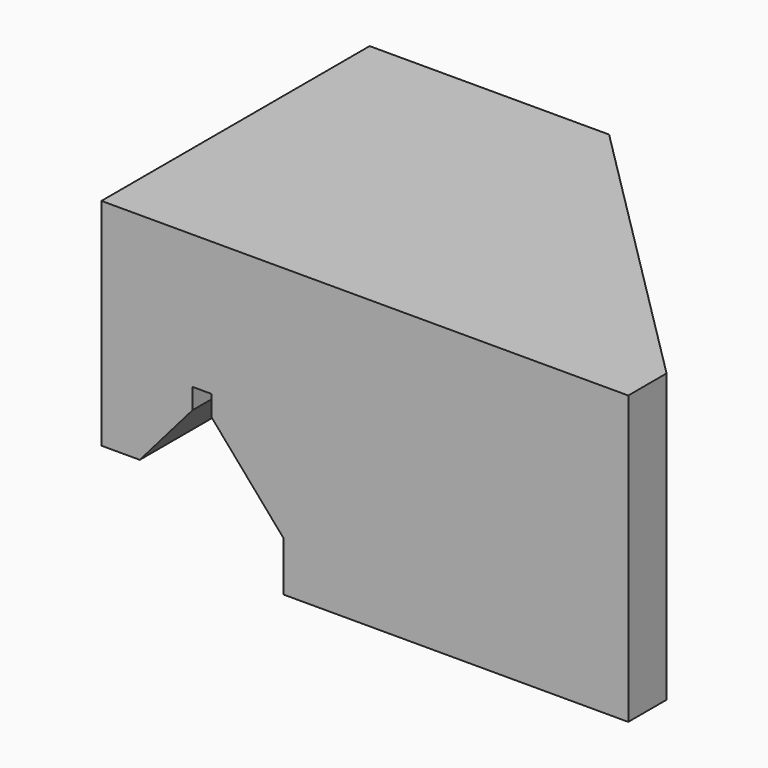
from build123d import *

# Parameters (mm, degrees)
F1_DEPTH = 44.45
F3_DEPTH = 38.1
F5_DEPTH = 12.7


with BuildPart() as f1:
    # F0 (on Front) → F1 (new body)
    with BuildSketch(Plane.XZ):
        Polygon((24.13, 6.594231), (24.13, 0), (69.85, 0), (69.85, 38.1), (0, 38.1), (0, 9.525), (5.08, 9.525), (12.065, 17.584615), (12.065, 19.05), (12.065, 20.32), (14.605, 20.32), (14.605, 19.05), (14.605, 17.584615), (21.59, 9.525), align=None)
    extrude(amount=F1_DEPTH)

    # F2 (on face) → F3 (cut)
    with BuildSketch(Plane.XY.offset(38.1)):
        Polygon((69.85, -38.1), (69.85, 0), (31.75, 0), align=None)
    extrude(amount=-F3_DEPTH, mode=Mode.SUBTRACT)

    # F4 (on face) → F5 (cut)
    with BuildSketch(Plane(origin=(15.875, 15.875, 0), x_dir=(-0.707107, 0.707107, 0), z_dir=(0.707107, 0.707107, 0))):
        with BuildLine():
            ThreePointArc((-49.391409, 22.225), (-51.636473, 21.295064), (-52.566409, 19.05))
            Line((-52.566409, 19.05), (-49.391409, 19.05))
            Line((-49.391409, 19.05), (-49.391409, 22.225))
        make_face()
        with BuildLine():
            Line((-49.391409, 19.05), (-52.566409, 19.05))
            ThreePointArc((-52.566409, 19.05), (-51.636473, 16.804936), (-49.391409, 15.875))
            Line((-49.391409, 15.875), (-49.391409, 19.05))
        make_face()
        with BuildLine():
            Line((-49.391409, 22.225), (-49.391409, 19.05))
            Line((-49.391409, 19.05), (-46.216409, 19.05))
            ThreePointArc((-46.216409, 19.05), (-47.146345, 21.295064), (-49.391409, 22.225))
        make_face()
        with BuildLine():
            Line((-46.216409, 19.05), (-49.391409, 19.05))
            Line((-49.391409, 19.05), (-49.391409, 15.875))
            ThreePointArc((-49.391409, 15.875), (-47.146345, 16.804936), (-46.216409, 19.05))
        make_face()
    extrude(amount=-F5_DEPTH, mode=Mode.SUBTRACT)


solid = f1.part
